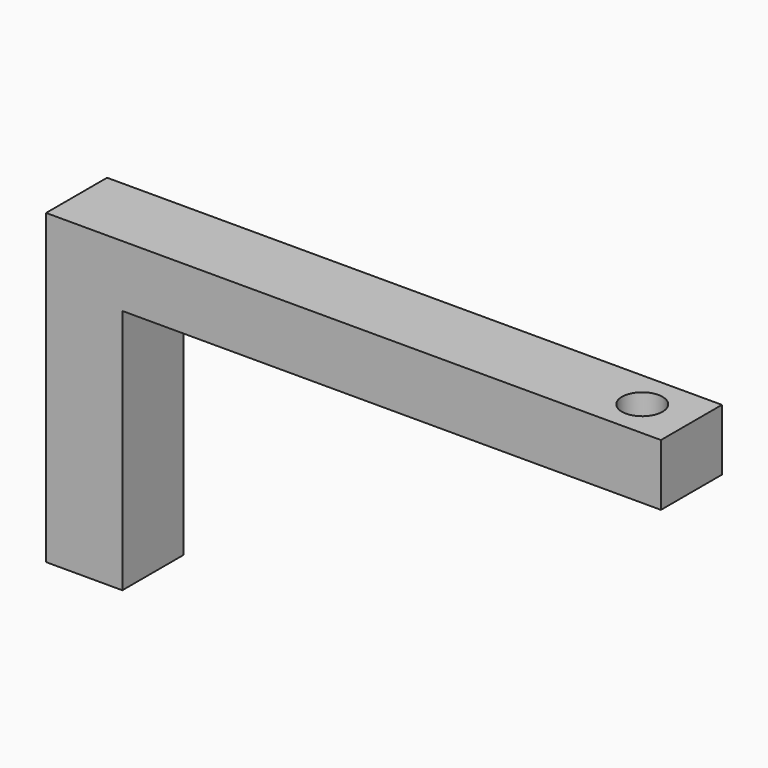
from build123d import *

# Parameters (mm, degrees)
F0_W     = 6.2
F0_H     = 6.2
F1_DEPTH = 20
F2_W     = 50
F2_H     = 6.2
F3_DEPTH = 5
F4_R     = 1.65
F5_DEPTH = 25


with BuildPart() as f1:
    # F0 (on Top) → F1 (new body)
    with BuildSketch(Plane.XY):
        Rectangle(F0_W, F0_H)
    extrude(amount=F1_DEPTH)

    # F2 (on face) → F3 (join)
    with BuildSketch(Plane.XY.offset(20)):
        with Locations((21.9, 0)):
            Rectangle(F2_W, F2_H)
    extrude(amount=F3_DEPTH)

    # F4 (on face) → F5 (cut)
    with BuildSketch(Plane.XY.offset(25)):
        with Locations((42.9, 0)):
            Circle(F4_R)
    extrude(amount=-F5_DEPTH, mode=Mode.SUBTRACT)


solid = f1.part
